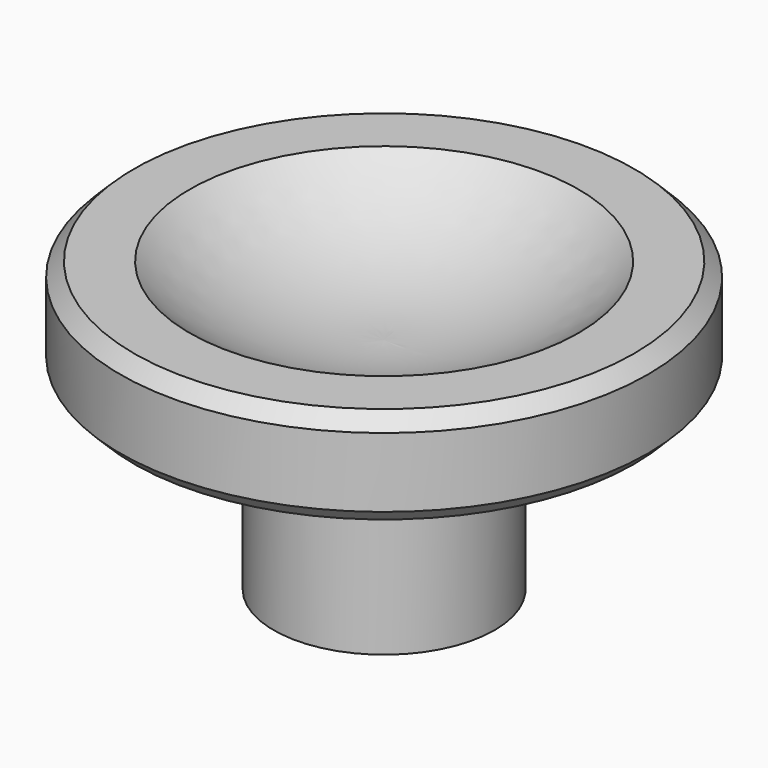
from build123d import *

# Parameters (mm, degrees)
F2_SIZE = 0.5


with BuildPart() as f1:
    # F0 (on Front) → F1 (revolve)
    with BuildSketch(Plane.XZ):
        with BuildLine():
            Line((2.475, 0), (3.975, 0))
            Line((3.975, 0), (3.975, 6.9))
            Line((3.975, 6.9), (9.5, 6.9))
            Line((9.5, 6.9), (9.5, 10.4))
            Line((9.5, 10.4), (7, 10.4))
            ThreePointArc((7, 10.4), (3.746703, 8.459232), (0, 7.9))
            Line((0, 7.9), (0, 6.9))
            Line((0, 6.9), (2.475, 6.9))
            Line((2.475, 6.9), (2.475, 0))
        make_face()
    revolve(axis=Axis((0, 0, 7.4), (0, 0, 1)))

    # F2
    f2_edges = [f1.edges().sort_by_distance(p)[0] for p in [
        (-9.5, 0, 10.4),
        (-9.5, 0, 6.9),
    ]]
    chamfer(f2_edges, length=F2_SIZE)


solid = f1.part
